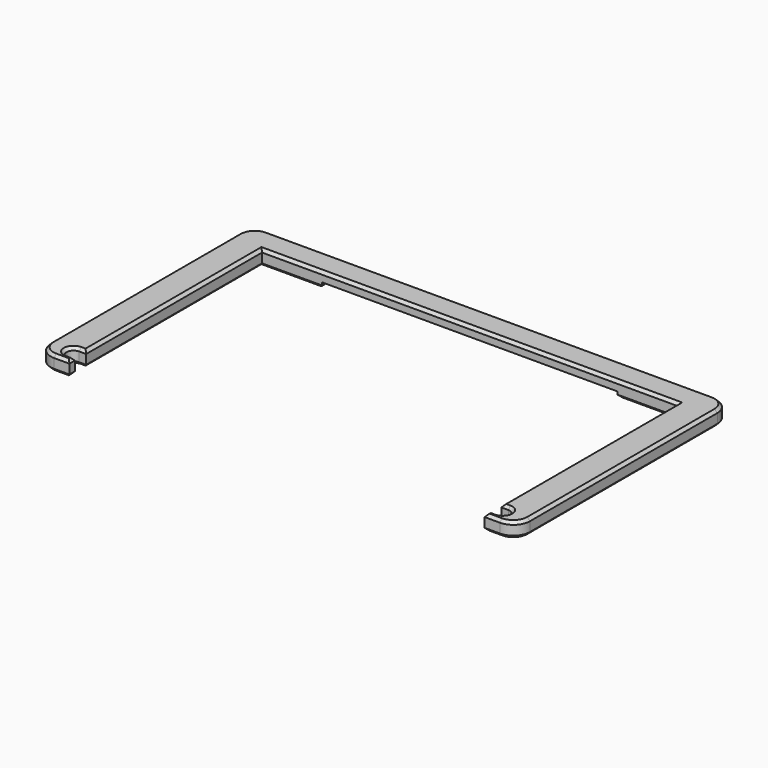
from build123d import *

# Parameters (mm, degrees)
PAD_DEPTH       = 2.7
SKETCH002_W     = 53
SKETCH002_H     = 6
POCKET_DEPTH    = 1
POCKET001_DEPTH = 2.701
FILLET_R        = 3
CHAMFER_SIZE    = 0.5


with BuildPart() as part:
    # Sketch001 → Pad (new body)
    with BuildSketch(Plane.XY):
        Polygon((-37.25, -23.75), (-37.25, 19.45), (37.25, 19.45), (37.25, -23.75), (43, -23.75), (43, 24.25), (-43, 24.25), (-43, -23.75), align=None)
    extrude(amount=PAD_DEPTH)

    # Sketch002 (on Face9 of Pad) → Pocket (cut)
    with BuildSketch(Plane(origin=(0, 0, 0), x_dir=(1, 0, 0), z_dir=(0, 0, -1))):
        with Locations((0, -21.905725)):
            Rectangle(SKETCH002_W, SKETCH002_H)
    extrude(amount=-POCKET_DEPTH, mode=Mode.SUBTRACT)

    # Sketch003 (on Face4 of Pocket) → Pocket001 (cut, through all)
    with BuildSketch(Plane(origin=(0, 0, 0), x_dir=(1, 0, 0), z_dir=(0, 0, -1))):
        with BuildLine():
            ThreePointArc((38.5, 20), (39.75, 21.25), (38.5, 22.5))
            Line((38.5, 22.5), (36, 22.5))
            Line((36, 22.5), (36, 20))
            Line((38.5, 20), (36, 20))
        make_face()
        with BuildLine():
            ThreePointArc((-38.5, 22.5), (-39.75, 21.25), (-38.5, 20))
            Line((-38.5, 20), (-36, 20))
            Line((-36, 22.5), (-36, 20))
            Line((-38.5, 22.5), (-36, 22.5))
        make_face()
    extrude(amount=-POCKET001_DEPTH, mode=Mode.SUBTRACT)

    # Fillet
    fillet_edges = [part.edges().sort_by_distance(p)[0] for p in [
        (43, -23.75, 1.35),
        (43, 24.25, 1.35),
        (-43, 24.25, 1.35),
        (-43, -23.75, 1.35),
    ]]
    fillet(fillet_edges, radius=FILLET_R)

    # Chamfer
    chamfer_edges = [part.edges().sort_by_distance(p)[0] for p in [
        (-43, 0.25, 0),
        (-42.12132, 23.37132, 0),
        (-42.12132, -22.87132, 0),
        (-33.25, 24.25, 0),
        (-38.625, -23.75, 0),
        (-26.5, 21.85, 0),
        (-37.25, -23.125, 0),
        (-31.875, 19.45, 0),
        (-37.875, -22.5, 0),
        (-37.25, -0.275, 0),
        (-39.75, -21.25, 0),
        (-37.875, -20, 0),
        (33.25, 24.25, 0),
        (42.12132, 23.37132, 0),
        (26.5, 21.85, 0),
        (43, 0.25, 0),
        (31.875, 19.45, 0),
        (42.12132, -22.87132, 0),
        (37.25, -0.275, 0),
        (38.625, -23.75, 0),
        (37.875, -20, 0),
        (37.25, -23.125, 0),
        (39.75, -21.25, 0),
        (37.875, -22.5, 0),
        (-38.625, -23.75, 2.7),
        (-42.12132, -22.87132, 2.7),
        (-37.25, -23.125, 2.7),
        (-43, 0.25, 2.7),
        (-37.875, -22.5, 2.7),
        (-42.12132, 23.37132, 2.7),
        (-39.75, -21.25, 2.7),
        (0, 24.25, 2.7),
        (-37.875, -20, 2.7),
        (42.12132, 23.37132, 2.7),
        (-37.25, -0.275, 2.7),
        (43, 0.25, 2.7),
        (0, 19.45, 2.7),
        (42.12132, -22.87132, 2.7),
        (37.25, -0.275, 2.7),
        (38.625, -23.75, 2.7),
        (37.875, -20, 2.7),
        (37.25, -23.125, 2.7),
        (39.75, -21.25, 2.7),
        (37.875, -22.5, 2.7),
    ]]
    chamfer(chamfer_edges, length=CHAMFER_SIZE)


solid = part.part
